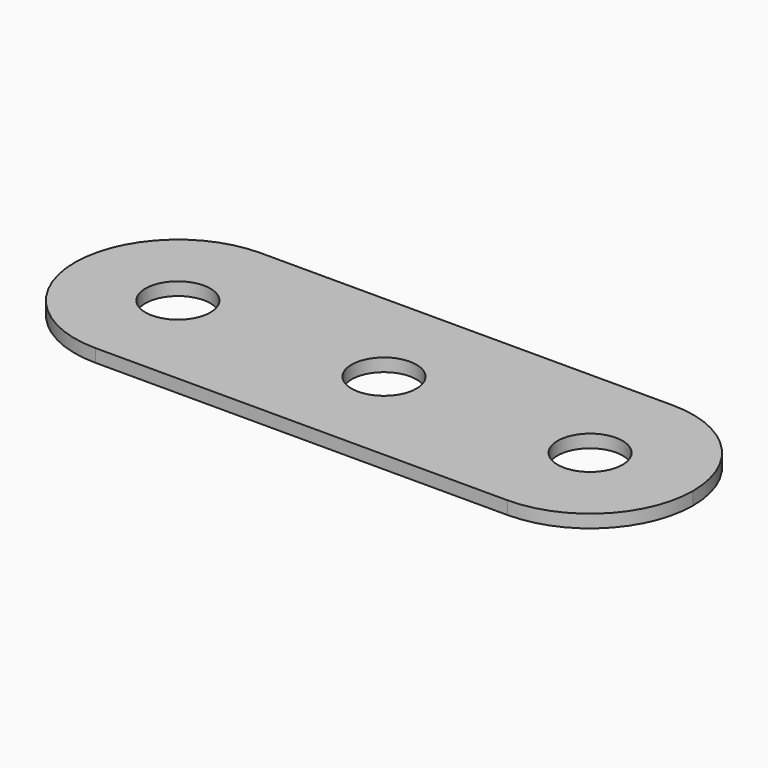
from build123d import *

# Parameters (mm, degrees)
F0_R     = 2
F1_DEPTH = 0.8


with BuildPart() as f1:
    # F0 (on Top) → F1 (new body)
    with BuildSketch(Plane.XY):
        with BuildLine():
            Line((0, -6.35), (25.4, -6.35))
            ThreePointArc((25.4, -6.35), (29.890128, -4.490128), (31.75, 0))
            ThreePointArc((31.75, 0), (29.890128, 4.490128), (25.4, 6.35))
            Line((25.4, 6.35), (0, 6.35))
            ThreePointArc((0, 6.35), (-4.490128, 4.490128), (-6.35, 0))
            ThreePointArc((-6.35, 0), (-4.490128, -4.490128), (0, -6.35))
        make_face()
        Circle(F0_R, mode=Mode.SUBTRACT)
        with Locations((12.7, 0)):
            Circle(F0_R, mode=Mode.SUBTRACT)
        with Locations((25.4, 0)):
            Circle(F0_R, mode=Mode.SUBTRACT)
    extrude(amount=F1_DEPTH)


solid = f1.part
